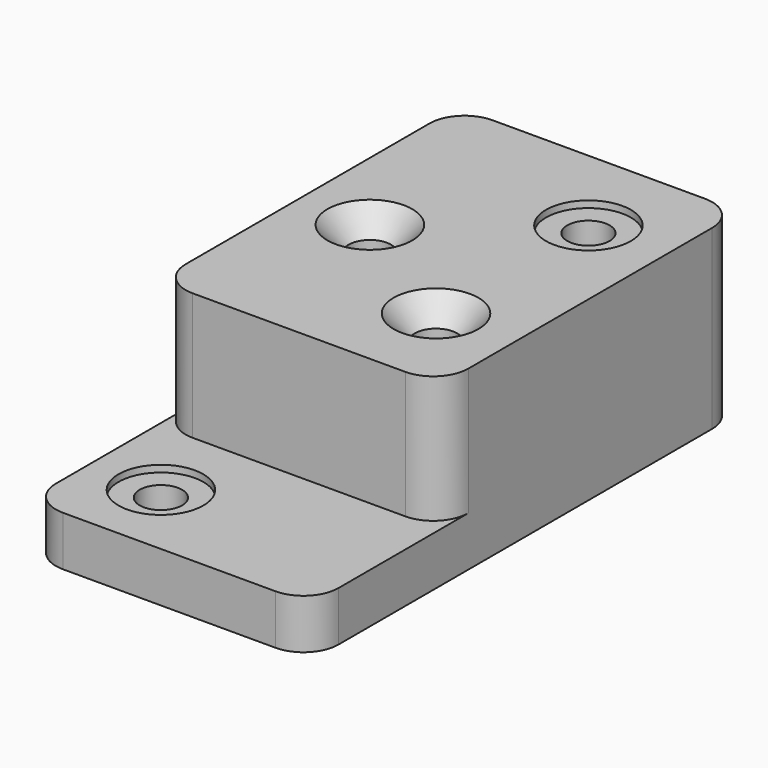
from build123d import *

# Parameters (mm, degrees)
F0_W                 = 127
F0_H                 = 79.502
F1_DEPTH             = 120.65
F2_W                 = 72.898
F2_H                 = 57.15
F3_DEPTH             = 127.001
F6_D                 = 19.05
F6_CBORE_D           = 38.1
F6_CBORE_DEPTH       = 3.048
F6_ON_F4_D           = 19.05
F6_ON_F4_CBORE_D     = 38.1
F6_ON_F4_CBORE_DEPTH = 3.048
F7_D                 = 19.05
F7_CSINK_D           = 38.1
F7_CSINK_ANGLE       = 82
F8_R                 = 15.748


with BuildPart() as f1:
    # F0 (on Front) → F1 (new body, symmetric)
    with BuildSketch(Plane.XZ):
        with Locations((0, 39.751)):
            Rectangle(F0_W, F0_H)
    extrude(amount=F1_DEPTH, both=True)

    # F2 (on face) → F3 (cut, through all)
    with BuildSketch(Plane.YZ.offset(63.5)):
        with Locations((-84.201, 50.927)):
            Rectangle(F2_W, F2_H)
    extrude(amount=-F3_DEPTH, mode=Mode.SUBTRACT)

    # F6 (through all)
    with Locations(Plane.XY.offset(79.502)):
        with Locations((28.448, 79.248)):
            CounterBoreHole(F6_D / 2, F6_CBORE_D / 2, F6_CBORE_DEPTH)

    # F6 on F4 (through all)
    with Locations(Plane.XY.offset(22.352)):
        with Locations((-31.75, -85.598)):
            CounterBoreHole(F6_ON_F4_D / 2, F6_ON_F4_CBORE_D / 2, F6_ON_F4_CBORE_DEPTH)

    # F7 (through all)
    with Locations(Plane.XY.offset(79.502)):
        with Locations((-31.75, 31.75), (28.448, -6.35)):
            CounterSinkHole(F7_D / 2, F7_CSINK_D / 2, counter_sink_angle=F7_CSINK_ANGLE)

    # F8
    f8_edges = [f1.edges().sort_by_distance(p)[0] for p in [
        (-63.5, -47.752, 50.927),
        (63.5, -47.752, 50.927),
        (63.5, -120.65, 11.176),
        (-63.5, -120.65, 11.176),
        (63.5, 120.65, 39.751),
        (-63.5, 120.65, 39.751),
    ]]
    fillet(f8_edges, radius=F8_R)


solid = f1.part
